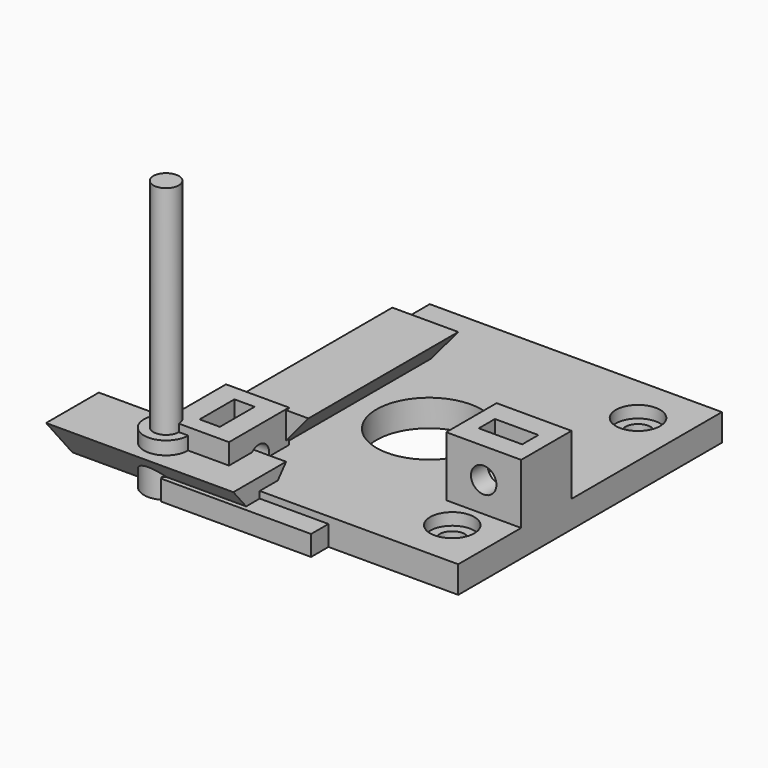
from build123d import *

# Parameters (mm, degrees)
CYLINDER_R               = 2.95
CYLINDER_DEPTH           = 7
CYLINDER001_R            = 1.7
CYLINDER001_DEPTH        = 30
PAD002_DEPTH             = 2.7
PAD039_DEPTH             = 12.5
CLONE292_PITCH_ANGLE     = -90
CLONE291_PITCH_ANGLE     = 90
BOX255_W                 = 8.4
BOX255_H                 = 10
BOX255_DEPTH             = 8
CLONE299_PLACEMENT_ANGLE = 90
CLONE298_PLACEMENT_ANGLE = 90
CLONE295_PLACEMENT_ANGLE = 180
CLONE294_PLACEMENT_ANGLE = 180
CLONE297_PLACEMENT_ANGLE = 180
CYLINDER1028_R           = 7
CYLINDER1028_DEPTH       = 10
CLONE296_PLACEMENT_ANGLE = 180
BOX256_W                 = 39
BOX256_H                 = 44
BOX256_DEPTH             = 3.6


with BuildPart() as m3bolthead:
    # Cylinder → Cylinder (new body)
    with BuildSketch(Plane.XY):
        Circle(CYLINDER_R)
    extrude(amount=CYLINDER_DEPTH)


with BuildPart() as m3bolt:
    # Cylinder001 → Cylinder001 (new body)
    with BuildSketch(Plane.XY.offset(6)):
        Circle(CYLINDER001_R)
    extrude(amount=CYLINDER001_DEPTH)

    # Fusion: union M3BoltHead
    add(m3bolthead.part)


with BuildPart() as m3nuthousing:
    # Sketch003 → Pad002 (new body)
    with BuildSketch(Plane.XY):
        Polygon((0, 0), (1.674316, 2.9), (21.674316, 2.9), (21.674316, -2.9), (1.674316, -2.9), align=None)
    extrude(amount=PAD002_DEPTH)


with BuildPart() as obj1:
    # Sketch056 → Pad039 (new body, symmetric)
    with BuildSketch(Plane.YZ):
        Polygon((-4.4, 5.243716), (4.4, 5.243716), (0, 0), align=None)
    extrude(amount=PAD039_DEPTH, both=True)


with BuildPart() as clone_of_m3nuthousing026:
    # Clone292 base: copy of M3NutHousing
    add(m3nuthousing.part)


with BuildPart() as clone_of_m3nuthousing026_1:
    # Clone292 pitch: moved
    add(clone_of_m3nuthousing026.part.rotate(Axis((0, 0, 0), (0, 1, 0)), CLONE292_PITCH_ANGLE))


with BuildPart() as clone_of_m3nuthousing026_2:
    # Clone292 placement: moved
    add(clone_of_m3nuthousing026_1.part.moved(Location((5.5, 5, 0.5))))


with BuildPart() as fusion101:
    # Clone291 base: copy of M3Bolt
    add(m3bolt.part)


with BuildPart() as fusion101_1:
    # Clone291 pitch: moved
    add(fusion101.part.rotate(Axis((0, 0, 0), (0, 1, 0)), CLONE291_PITCH_ANGLE))


with BuildPart() as fusion101_2:
    # Clone291 placement: moved
    add(fusion101_1.part.moved(Location((-14.5, 5, 4))))

    # Fusion101: union Clone of M3NutHousing026
    add(clone_of_m3nuthousing026_2.part)


with BuildPart() as obj2:
    # Box255 → Box255 (new body)
    with BuildSketch(Plane.XY):
        with Locations((4.2, 5)):
            Rectangle(BOX255_W, BOX255_H)
    extrude(amount=BOX255_DEPTH)

    # Cut087: cut Fusion101
    add(fusion101_2.part, mode=Mode.SUBTRACT)


with BuildPart() as obj3:
    # Clone299 base: copy of obj2
    add(obj2.part)


with BuildPart() as obj3_1:
    # Clone299 placement: moved
    add(obj3.part.moved(Location((39, 10.5, 3.6))).rotate(Axis((39, 10.5, 3.6), (0, 0, 1)), CLONE299_PLACEMENT_ANGLE))


with BuildPart() as obj4:
    # Clone298 base: copy of obj1
    add(obj1.part)


with BuildPart() as obj4_1:
    # Clone298 placement: moved
    add(obj4.part.moved(Location((7, 22, 2.656284))).rotate(Axis((7, 22, 2.656284), (0, 0, 1)), CLONE298_PLACEMENT_ANGLE))


with BuildPart() as clone_of_m3bolt105:
    # Clone295 base: copy of M3Bolt
    add(m3bolt.part)


with BuildPart() as clone_of_m3bolt105_1:
    # Clone295 placement: moved
    add(clone_of_m3bolt105.part.moved(Location((2, 6.5, 9))).rotate(Axis((2, 6.5, 9), (1, 0, 0)), CLONE295_PLACEMENT_ANGLE))


with BuildPart() as clone_of_m3bolt104:
    # Clone294 base: copy of M3Bolt
    add(m3bolt.part)


with BuildPart() as clone_of_m3bolt104_1:
    # Clone294 placement: moved
    add(clone_of_m3bolt104.part.moved(Location((2, 37.5, 9))).rotate(Axis((2, 37.5, 9), (1, 0, 0)), CLONE294_PLACEMENT_ANGLE))


with BuildPart() as clone_of_m3bolt107:
    # Clone297 base: copy of M3Bolt
    add(m3bolt.part)


with BuildPart() as clone_of_m3bolt107_1:
    # Clone297 placement: moved
    add(clone_of_m3bolt107.part.moved(Location((33, 37.5, 9))).rotate(Axis((33, 37.5, 9), (1, 0, 0)), CLONE297_PLACEMENT_ANGLE))


with BuildPart() as cylinder1072:
    # Cylinder1028 → Cylinder1028 (new body)
    with BuildSketch(Plane(origin=(17.5, 22, 0), x_dir=(1, 0, 0), z_dir=(0, 0, 1))):
        Circle(CYLINDER1028_R)
    extrude(amount=CYLINDER1028_DEPTH)


with BuildPart() as fusion103:
    # Clone296 base: copy of M3Bolt
    add(m3bolt.part)


with BuildPart() as fusion103_1:
    # Clone296 placement: moved
    add(fusion103.part.moved(Location((33, 6.5, 9))).rotate(Axis((33, 6.5, 9), (1, 0, 0)), CLONE296_PLACEMENT_ANGLE))

    # Fusion103: union Clone of M3Bolt105, Clone of M3Bolt104, Clone of M3Bolt107, Cylinder1072
    add(clone_of_m3bolt105_1.part)
    add(clone_of_m3bolt104_1.part)
    add(clone_of_m3bolt107_1.part)
    add(cylinder1072.part)


with BuildPart() as obj5:
    # Box256 → Box256 (new body)
    with BuildSketch(Plane.XY):
        with Locations((19.5, 22)):
            Rectangle(BOX256_W, BOX256_H)
    extrude(amount=BOX256_DEPTH)

    # Cut088: cut Fusion103
    add(fusion103_1.part, mode=Mode.SUBTRACT)

    # Fusion120: union obj3, obj4
    add(obj3_1.part)
    add(obj4_1.part)


solid = Compound([m3bolt.part, m3nuthousing.part, obj1.part, obj2.part, obj5.part])
